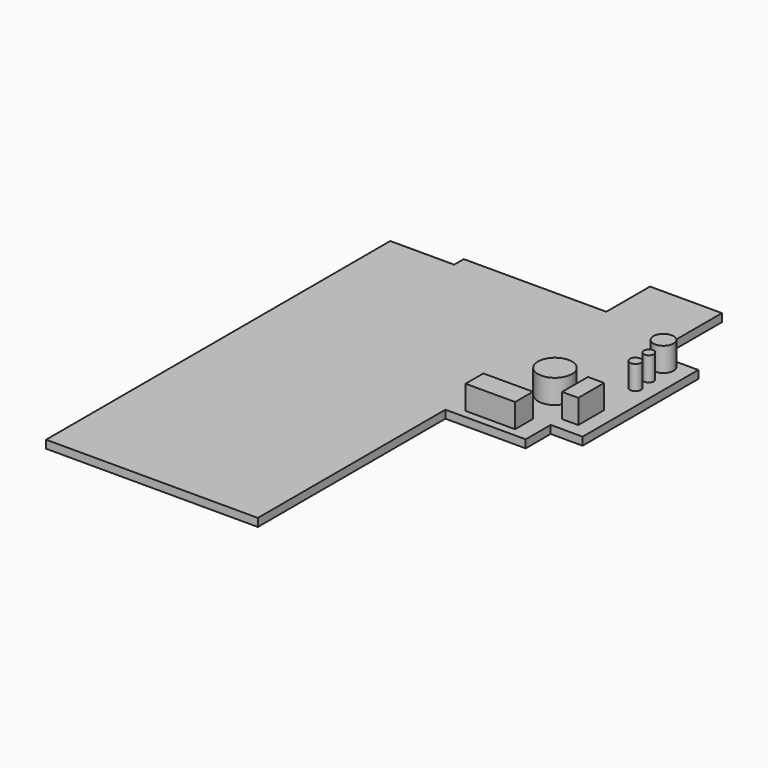
from build123d import *

# Parameters (mm, degrees)
F0_R     = 27.046255
F1_DEPTH = 50.8
F0_W     = 25.68686
F0_H     = 51.37375
F2_DEPTH = 50.8
F0_W_2   = 78.773111
F0_H_2   = 35.390824
F3_DEPTH = 50.8
F0_R_2   = 8.581332
F0_R_3   = 16.023706
F0_R_4   = 7.991493
F4_DEPTH = 50.8
F0_W_3   = 336.55
F0_H_3   = 372.5164
F5_DEPTH = 12.7


with BuildPart() as f1:
    # F0 (on Top) → F1 (new body)
    with BuildSketch(Plane.XY):
        with Locations((233.148515, 442.319661)):
            Circle(F0_R)
    extrude(amount=F1_DEPTH)


with BuildPart() as f2:
    # F0 (on Top) → F2 (new body)
    with BuildSketch(Plane.XY):
        with Locations((293.369979, 422.911808)):
            Rectangle(F0_W, F0_H)
    extrude(amount=F2_DEPTH)


with BuildPart() as f3:
    # F0 (on Top) → F3 (new body)
    with BuildSketch(Plane.XY):
        with Locations((212.598995, 357.267544)):
            Rectangle(F0_W_2, F0_H_2)
    extrude(amount=F3_DEPTH)


with BuildPart() as f4:
    # F0 (on Top) → F4 (new body)
    with BuildSketch(Plane.XY):
        with Locations((299.363583, 519.380331)):
            Circle(F0_R_2)
        with Locations((291.37212, 585.024595)):
            Circle(F0_R_3)
        with Locations((298.221946, 547.350526)):
            Circle(F0_R_4)
    extrude(amount=F4_DEPTH)


with BuildPart() as f5:
    # F0 (on Top) → F5 (new body)
    with BuildSketch(Plane.XY):
        Polygon((-184.961865, 326.604622), (151.588135, 326.604622), (151.588135, 381.638802), (270.769119, 606.004622), (257.422315, 606.004622), (257.422315, 743.588802), (143.122315, 743.588802), (143.122315, 656.804622), (-60.077685, 656.804622), (-83.361865, 656.804622), (-83.361865, 637.754622), (-184.961865, 637.754622), align=None)
        with Locations((-16.686865, 140.346422)):
            Rectangle(F0_W_3, F0_H_3)
        Polygon((151.588135, 381.638802), (151.588135, 326.604622), (279.17546, 326.604622), (279.17546, 376.258105), (329.918176, 376.258105), (329.918176, 606.004622), (270.769119, 606.004622), align=None)
        with Locations((212.598995, 357.267544)):
            Rectangle(F0_W_2, F0_H_2, mode=Mode.SUBTRACT)
        with Locations((233.148515, 442.319661)):
            Circle(F0_R, mode=Mode.SUBTRACT)
        with Locations((293.369979, 422.911808)):
            Rectangle(F0_W, F0_H, mode=Mode.SUBTRACT)
        with Locations((299.363583, 519.380331)):
            Circle(F0_R_2, mode=Mode.SUBTRACT)
        with Locations((291.37212, 585.024595)):
            Circle(F0_R_3, mode=Mode.SUBTRACT)
        with Locations((298.221946, 547.350526)):
            Circle(F0_R_4, mode=Mode.SUBTRACT)
    extrude(amount=F5_DEPTH)


solid = Compound([f1.part, f2.part, f3.part, f4.part, f5.part])
